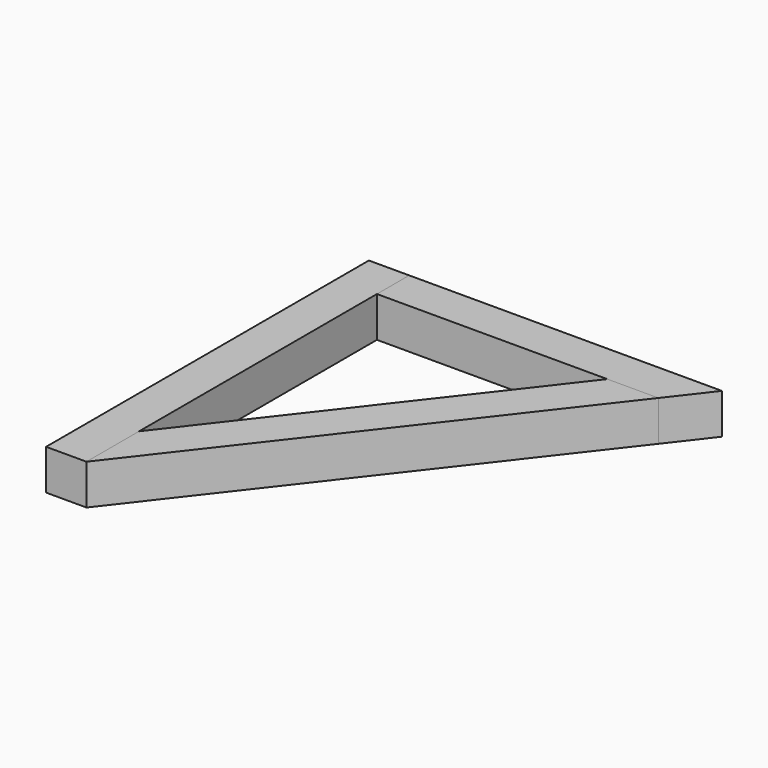
from build123d import *

# Parameters (mm, degrees)
F1_DEPTH = 40
F2_DEPTH = 40
F3_DEPTH = 40


with BuildPart() as f1:
    # F0 (on Top) → F1 (new body)
    with BuildSketch(Plane.XY):
        Polygon((350, 400), (40, 400), (40, 360), (268.393676, 360), (319, 360), align=None)
    extrude(amount=F1_DEPTH)


with BuildPart() as f2:
    # F0 (on Top) → F2 (new body)
    with BuildSketch(Plane.XY):
        Polygon((40, 65.298482), (40, 0), (319, 360), (268.393676, 360), align=None)
    extrude(amount=F2_DEPTH)


with BuildPart() as f3:
    # F0 (on Top) → F3 (new body)
    with BuildSketch(Plane.XY):
        Polygon((0, 400), (0, 0), (40, 0), (40, 65.298482), (40, 360), (40, 400), align=None)
    extrude(amount=F3_DEPTH)


solid = Compound([f1.part, f2.part, f3.part])
